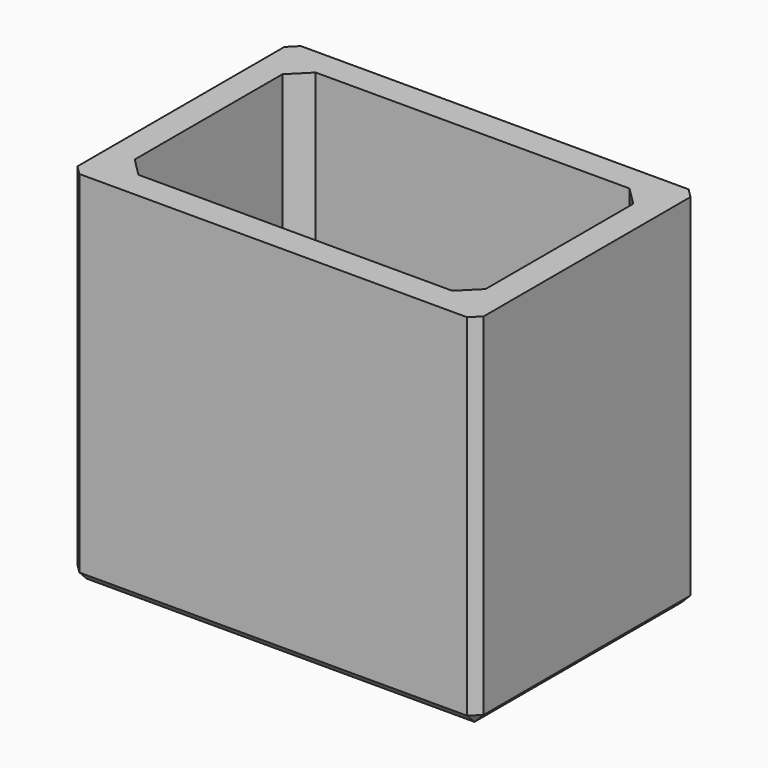
from build123d import *

# Parameters (mm, degrees)
F0_W     = 22
F0_H     = 15
F1_DEPTH = 1.5
F2_W     = 22
F2_H     = 15
F2_W_2   = 19
F2_H_2   = 12
F3_DEPTH = 18
F4_SIZE  = 0.5
F5_SIZE  = 1


with BuildPart() as f1:
    # F0 (on Top) → F1 (new body)
    with BuildSketch(Plane.XY):
        with Locations((11, 7.5)):
            Rectangle(F0_W, F0_H)
    extrude(amount=F1_DEPTH)

    # F2 (on face) → F3 (join)
    with BuildSketch(Plane.XY.offset(1.5)):
        with Locations((11, 7.5)):
            Rectangle(F2_W, F2_H)
        with Locations((11, 7.5)):
            Rectangle(F2_W_2, F2_H_2, mode=Mode.SUBTRACT)
    extrude(amount=F3_DEPTH)

    # F4
    f4_edges = [f1.edges().sort_by_distance(p)[0] for p in [
        (0, 7.5, 0),
        (11, 0, 0),
        (22, 7.5, 0),
        (11, 15, 0),
        (22, 0, 9.75),
        (22, 15, 9.75),
        (0, 0, 9.75),
        (0, 15, 9.75),
    ]]
    chamfer(f4_edges, length=F4_SIZE)

    # F5
    f5_edges = [f1.edges().sort_by_distance(p)[0] for p in [
        (1.5, 7.5, 1.5),
        (11, 13.5, 1.5),
        (20.5, 7.5, 1.5),
        (11, 1.5, 1.5),
        (20.5, 13.5, 10.5),
        (1.5, 13.5, 10.5),
        (1.5, 1.5, 10.5),
        (20.5, 1.5, 10.5),
    ]]
    chamfer(f5_edges, length=F5_SIZE)


solid = f1.part
